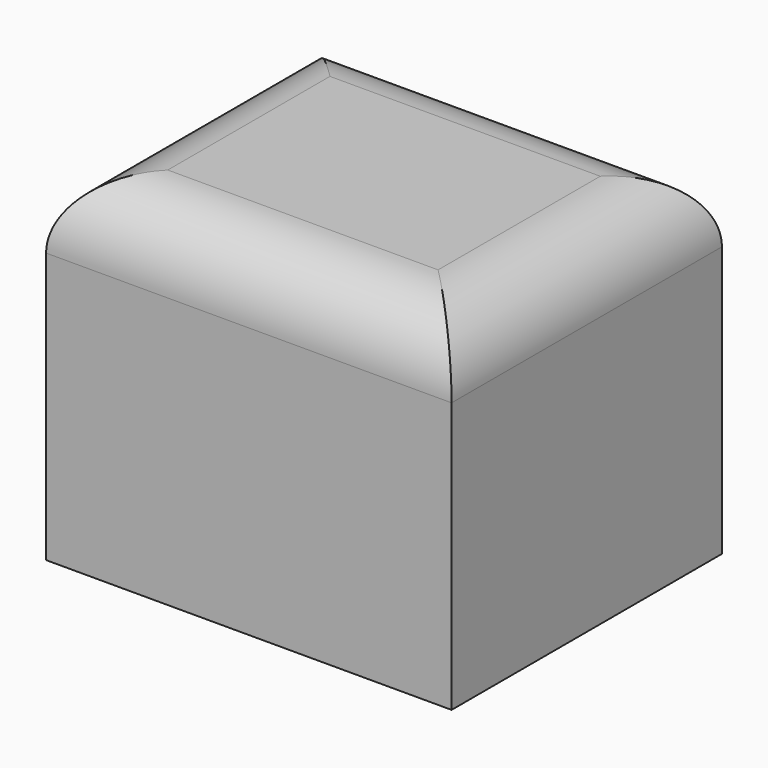
from build123d import *

# Parameters (mm, degrees)
F0_W     = 60
F0_H     = 50
F1_DEPTH = 50
F2_W     = 40
F2_H     = 30
F3_DEPTH = 5
F4_R     = 2
F5_R     = 10


with BuildPart() as f1:
    # F0 (on Top) → F1 (new body)
    with BuildSketch(Plane.XY):
        with Locations((30, 25)):
            Rectangle(F0_W, F0_H)
    extrude(amount=F1_DEPTH)

    # F2 (on face) → F3 (cut)
    with BuildSketch(Plane(origin=(0, 0, 0), x_dir=(1, 0, 0), z_dir=(0, 0, -1))):
        with Locations((30, -25)):
            Rectangle(F2_W, F2_H)
    extrude(amount=-F3_DEPTH, mode=Mode.SUBTRACT)

    # F4
    f4_edges = [f1.edges().sort_by_distance(p)[0] for p in [
        (50, 40, 2.5),
        (10, 40, 2.5),
        (10, 10, 2.5),
        (50, 10, 2.5),
    ]]
    fillet(f4_edges, radius=F4_R)

    # F5
    f5_edges = [f1.edges().sort_by_distance(p)[0] for p in [
        (0, 25, 50),
        (30, 0, 50),
        (60, 25, 50),
        (30, 50, 50),
    ]]
    fillet(f5_edges, radius=F5_R)


solid = f1.part
